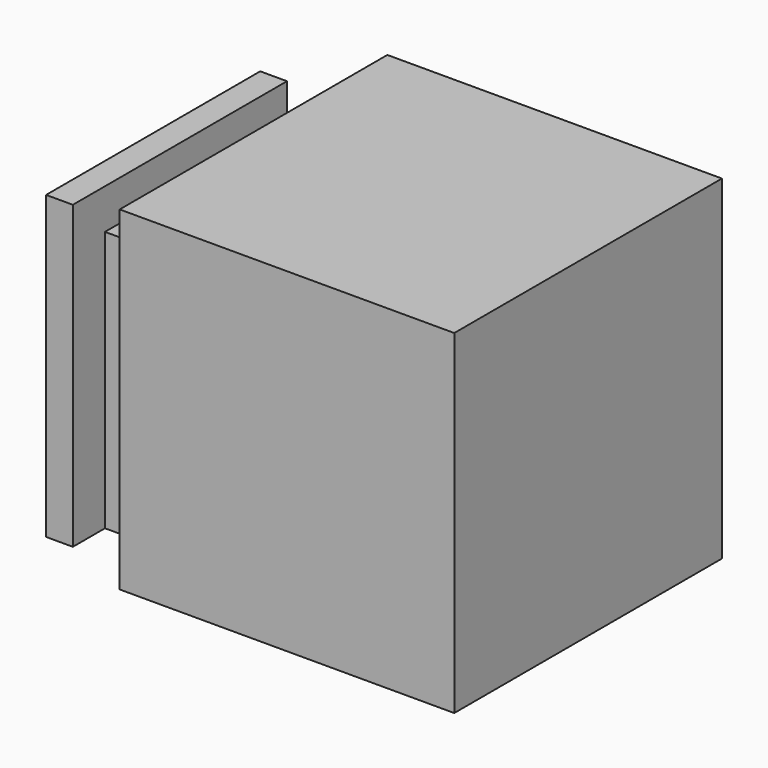
from build123d import *

# Parameters (mm, degrees)
F0_W     = 25.4
F0_H     = 25.4
F1_DEPTH = 25.4
F2_W     = 20.32
F2_H     = 22.86
F3_DEPTH = 7.62
F4_W     = 3.556
F4_H     = 20.32
F5_DEPTH = 3.048
F6_W     = 3.556
F6_H     = 19.812
F7_DEPTH = 3.048
F8_W     = 3.556
F8_H     = 19.812
F9_DEPTH = 3.048


with BuildPart() as f1:
    # F0 (on Top) → F1 (new body)
    with BuildSketch(Plane.XY):
        Rectangle(F0_W, F0_H)
    extrude(amount=F1_DEPTH)

    # F2 (on face) → F3 (join)
    with BuildSketch(Plane(origin=(-12.7, 0, 0), x_dir=(0, -1, 0), z_dir=(-1, 0, 0))):
        with Locations((0, 11.43)):
            Rectangle(F2_W, F2_H)
    extrude(amount=F3_DEPTH)

    # F4 (on face) → F5 (cut)
    with BuildSketch(Plane.XY.offset(22.86)):
        with Locations((-16.51, 0)):
            Rectangle(F4_W, F4_H)
    extrude(amount=-F5_DEPTH, mode=Mode.SUBTRACT)

    # F6 (on face) → F7 (cut)
    with BuildSketch(Plane.XZ.offset(10.16)):
        with Locations((-16.51, 9.906)):
            Rectangle(F6_W, F6_H)
    extrude(amount=-F7_DEPTH, mode=Mode.SUBTRACT)

    # F8 (on face) → F9 (cut)
    with BuildSketch(Plane(origin=(0, 10.16, 0), x_dir=(-1, 0, 0), z_dir=(0, 1, 0))):
        with Locations((16.51, 9.906)):
            Rectangle(F8_W, F8_H)
    extrude(amount=-F9_DEPTH, mode=Mode.SUBTRACT)


with BuildPart() as f10_1:
    # F10: copy of F1
    add(f1.part.moved(Location((-54.102, 0, 0))))


solid = f1.part
